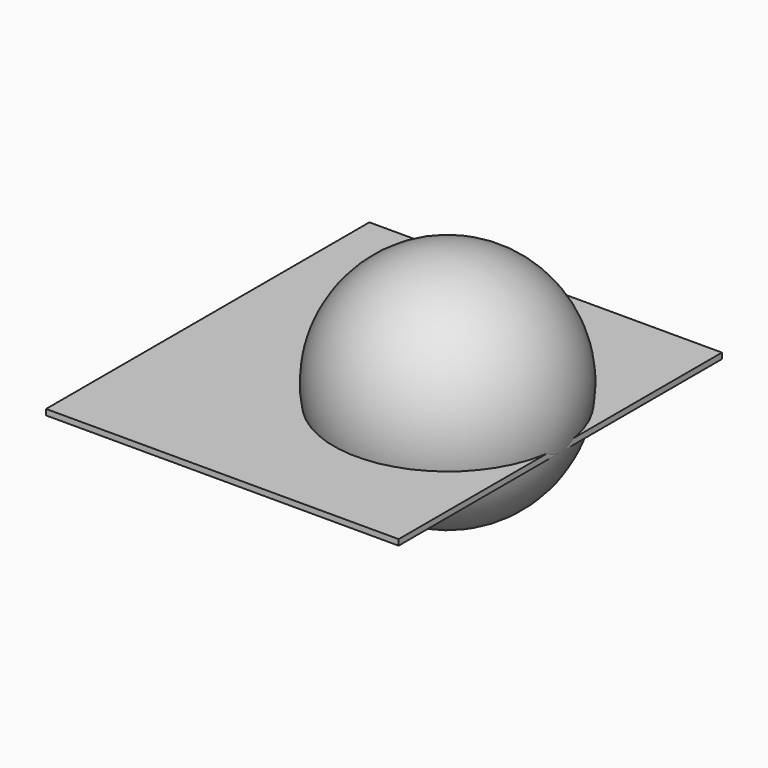
from build123d import *

# Parameters (mm, degrees)
F1_DEPTH = 50
F0_W     = 25.4
F0_H     = 127
F2_DEPTH = 12.7
F3_W     = 30537.4760249312
F3_H     = 35000
F4_DEPTH = 500


with BuildPart() as f1:
    # F0 (on Front) → F1 (new body, symmetric)
    with BuildSketch(Plane.XZ):
        Polygon((0, 5000), (0, 0), (100, 0), (100, 4900), (4900, 4900), (4900, 0), (5000, 0), (5000, 5000), align=None)
    extrude(amount=F1_DEPTH, both=True)

    # F3 (on Top) → F4 (join)
    with BuildSketch(Plane.XY):
        Rectangle(F3_W, F3_H)
    extrude(amount=F4_DEPTH)


with BuildPart() as f2:
    # F0 (on Front) → F2 (new body, symmetric)
    with BuildSketch(Plane.XZ):
        with Locations((5512.7, 2092.933965683)):
            Rectangle(F0_W, F0_H)
    extrude(amount=F2_DEPTH, both=True)


with BuildPart() as f7:
    # F6 (on offset) → F7 (revolve)
    with BuildSketch(Plane.XZ):
        with BuildLine():
            Line((-4487.3, 2156.433965683), (15512.7, 2156.433965683))
            ThreePointArc((15512.7, 2156.433965683), (5512.7, 12156.433965683), (-4487.3, 2156.433965683))
        make_face()
    revolve(axis=Axis((5512.7, 0, 2156.433965683), (1, 0, 0)))


solid = Compound([f1.part, f2.part, f7.part])
